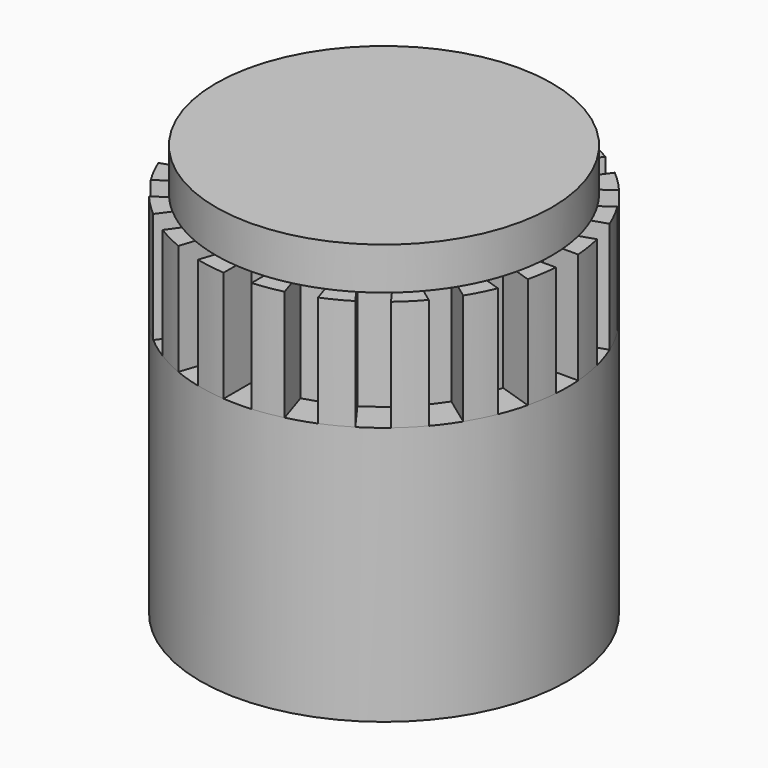
from build123d import *

# Parameters (mm, degrees)
F0_R     = 34.75
F1_DEPTH = 49
F3_DEPTH = 21
F4_R     = 31.8
F5_DEPTH = 8
F6_R     = 31.8
F7_DEPTH = 8


with BuildPart() as f1:
    # F0 (on Top) → F1 (new body)
    with BuildSketch(Plane.XY):
        Circle(F0_R)
    extrude(amount=F1_DEPTH)

    # F2 (on face) → F3 (join)
    with BuildSketch(Plane.XY.offset(49)):
        with BuildLine():
            Line((-2.639753, 28.010705), (-2.639753, 34.649592))
            ThreePointArc((-2.639753, 34.649592), (-5.436098, 34.32217), (-8.196759, 33.769448))
            Line((-8.196759, 33.769448), (-6.14523, 27.455492))
            Line((-6.14523, 27.455492), (-11.166338, 25.824036))
            Line((-11.166338, 25.824036), (-13.217867, 32.137992))
            ThreePointArc((-13.217867, 32.137992), (-15.77617, 30.962477), (-18.230914, 29.583716))
            Line((-18.230914, 29.583716), (-14.328675, 24.212744))
            Line((-14.328675, 24.212744), (-18.599884, 21.109529))
            Line((-18.599884, 21.109529), (-22.502124, 26.480501))
            ThreePointArc((-22.502124, 26.480501), (-24.571961, 24.571961), (-26.480501, 22.502124))
            Line((-26.480501, 22.502124), (-21.109529, 18.599884))
            Line((-21.109529, 18.599884), (-24.212744, 14.328675))
            Line((-24.212744, 14.328675), (-29.583716, 18.230914))
            ThreePointArc((-29.583716, 18.230914), (-30.962477, 15.77617), (-32.137992, 13.217867))
            Line((-32.137992, 13.217867), (-25.824036, 11.166338))
            Line((-25.824036, 11.166338), (-27.455492, 6.14523))
            Line((-27.455492, 6.14523), (-33.769448, 8.196759))
            ThreePointArc((-33.769448, 8.196759), (-34.32217, 5.436098), (-34.649592, 2.639753))
            Line((-34.649592, 2.639753), (-28.010705, 2.639753))
            Line((-28.010705, 2.639753), (-28.010705, -2.639753))
            Line((-28.010705, -2.639753), (-34.649592, -2.639753))
            ThreePointArc((-34.649592, -2.639753), (-34.32217, -5.436098), (-33.769448, -8.196759))
            Line((-33.769448, -8.196759), (-27.455492, -6.14523))
            Line((-27.455492, -6.14523), (-25.824036, -11.166338))
            Line((-25.824036, -11.166338), (-32.137992, -13.217867))
            ThreePointArc((-32.137992, -13.217867), (-30.962477, -15.77617), (-29.583716, -18.230914))
            Line((-29.583716, -18.230914), (-24.212744, -14.328675))
            Line((-24.212744, -14.328675), (-21.109529, -18.599884))
            Line((-21.109529, -18.599884), (-26.480501, -22.502124))
            ThreePointArc((-26.480501, -22.502124), (-24.571961, -24.571961), (-22.502124, -26.480501))
            Line((-22.502124, -26.480501), (-18.599884, -21.109529))
            Line((-18.599884, -21.109529), (-14.328675, -24.212744))
            Line((-14.328675, -24.212744), (-18.230914, -29.583716))
            ThreePointArc((-18.230914, -29.583716), (-15.77617, -30.962477), (-13.217867, -32.137992))
            Line((-13.217867, -32.137992), (-11.166338, -25.824036))
            Line((-11.166338, -25.824036), (-6.14523, -27.455492))
            Line((-6.14523, -27.455492), (-8.196759, -33.769448))
            ThreePointArc((-8.196759, -33.769448), (-5.436098, -34.32217), (-2.639753, -34.649592))
            Line((-2.639753, -34.649592), (-2.639753, -28.010705))
            Line((-2.639753, -28.010705), (2.639753, -28.010705))
            Line((2.639753, -28.010705), (2.639753, -34.649592))
            ThreePointArc((2.639753, -34.649592), (5.436098, -34.32217), (8.196759, -33.769448))
            Line((8.196759, -33.769448), (6.14523, -27.455492))
            Line((6.14523, -27.455492), (11.166338, -25.824036))
            Line((11.166338, -25.824036), (13.217867, -32.137992))
            ThreePointArc((13.217867, -32.137992), (15.77617, -30.962477), (18.230914, -29.583716))
            Line((18.230914, -29.583716), (14.328675, -24.212744))
            Line((14.328675, -24.212744), (18.599884, -21.109529))
            Line((18.599884, -21.109529), (22.502124, -26.480501))
            ThreePointArc((22.502124, -26.480501), (24.571961, -24.571961), (26.480501, -22.502124))
            Line((26.480501, -22.502124), (21.109529, -18.599884))
            Line((21.109529, -18.599884), (24.212744, -14.328675))
            Line((24.212744, -14.328675), (29.583716, -18.230914))
            ThreePointArc((29.583716, -18.230914), (30.962477, -15.77617), (32.137992, -13.217867))
            Line((32.137992, -13.217867), (25.824036, -11.166338))
            Line((25.824036, -11.166338), (27.455492, -6.14523))
            Line((27.455492, -6.14523), (33.769448, -8.196759))
            ThreePointArc((33.769448, -8.196759), (34.32217, -5.436098), (34.649592, -2.639753))
            Line((34.649592, -2.639753), (28.010705, -2.639753))
            Line((28.010705, -2.639753), (28.010705, 2.639753))
            Line((28.010705, 2.639753), (34.649592, 2.639753))
            ThreePointArc((34.649592, 2.639753), (34.32217, 5.436098), (33.769448, 8.196759))
            Line((33.769448, 8.196759), (27.455492, 6.14523))
            Line((27.455492, 6.14523), (25.824036, 11.166338))
            Line((25.824036, 11.166338), (32.137992, 13.217867))
            ThreePointArc((32.137992, 13.217867), (30.962477, 15.77617), (29.583716, 18.230914))
            Line((29.583716, 18.230914), (24.212744, 14.328675))
            Line((24.212744, 14.328675), (21.109529, 18.599884))
            Line((21.109529, 18.599884), (26.480501, 22.502124))
            ThreePointArc((26.480501, 22.502124), (24.571961, 24.571961), (22.502124, 26.480501))
            Line((22.502124, 26.480501), (18.599884, 21.109529))
            Line((18.599884, 21.109529), (14.328675, 24.212744))
            Line((14.328675, 24.212744), (18.230914, 29.583716))
            ThreePointArc((18.230914, 29.583716), (15.77617, 30.962477), (13.217867, 32.137992))
            Line((13.217867, 32.137992), (11.166338, 25.824036))
            Line((11.166338, 25.824036), (6.14523, 27.455492))
            Line((6.14523, 27.455492), (8.196759, 33.769448))
            ThreePointArc((8.196759, 33.769448), (5.436098, 34.32217), (2.639753, 34.649592))
            Line((2.639753, 34.649592), (2.639753, 28.010705))
            Line((2.639753, 28.010705), (-2.639753, 28.010705))
        make_face()
    extrude(amount=F3_DEPTH)

    # F4 (on face) → F5 (join)
    with BuildSketch(Plane.XY.offset(70)):
        Circle(F4_R)
    extrude(amount=F5_DEPTH)

    # F6 (on face) → F7 (cut)
    with BuildSketch(Plane(origin=(0, 0, 0), x_dir=(1, 0, 0), z_dir=(0, 0, -1))):
        Circle(F6_R)
    extrude(amount=-F7_DEPTH, mode=Mode.SUBTRACT)


solid = f1.part
